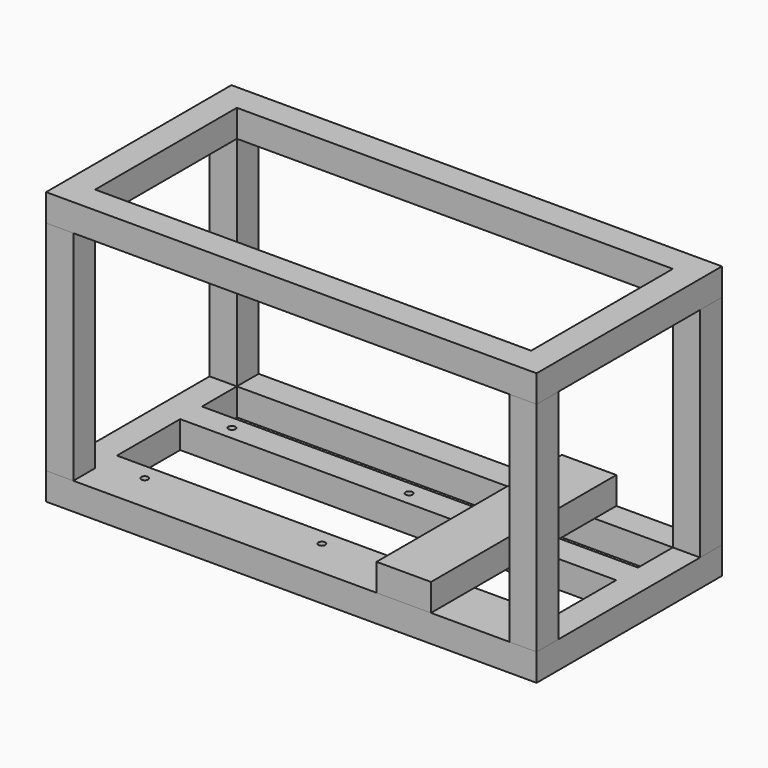
from build123d import *

# Parameters (mm, degrees)
F1_W      = 457.2
F1_H      = 215.9
F1_W_2    = 406.4
F1_H_2    = 73.66
F1_H_3    = 40.64
F2_DEPTH  = 25.4
F3_D      = 6.5278
F4_D      = 6.5278
F5_W      = 50.8
F5_H      = 215.9
F6_DEPTH  = 25.4
F7_W      = 25.4
F7_H      = 25.4
F8_DEPTH  = 203.2
F9_W      = 457.2
F9_H      = 215.9
F9_W_2    = 406.4
F9_H_2    = 165.1
F10_DEPTH = 25.4
F12_D     = 5.1054
F12_DEPTH = 19.685
F12_TIP   = 1.5338169022


with BuildPart() as f2:
    # F1 (on Top) → F2 (new body)
    with BuildSketch(Plane.XY):
        with Locations((228.6, 107.95)):
            Rectangle(F1_W, F1_H)
        with Locations((228.6, 87.63)):
            Rectangle(F1_W_2, F1_H_2, mode=Mode.SUBTRACT)
        with Locations((228.6, 170.18)):
            Rectangle(F1_W_2, F1_H_3, mode=Mode.SUBTRACT)
    extrude(amount=F2_DEPTH)

    # F3 (through all)
    with Locations(Plane(origin=(0, 0, 0), x_dir=(1, 0, 0), z_dir=(0, 0, -1))):
        with Locations((63.5, -35.56), (228.6, -35.56)):
            Hole(F3_D / 2)

    # F4 (through all)
    with Locations(Plane(origin=(0, 0, 0), x_dir=(1, 0, 0), z_dir=(0, 0, -1))):
        with Locations((63.5, -137.16), (228.6, -137.16)):
            Hole(F4_D / 2)

    # F12
    with Locations(Plane(origin=(0, 0, 0), x_dir=(1, 0, 0), z_dir=(0, 0, -1))):
        with Locations((381, -203.2), (76.2, -203.2), (76.2, -12.7), (381, -12.7)):
            Hole(F12_D / 2, depth=F12_DEPTH)
            with Locations((0, 0, -(F12_DEPTH + F12_TIP / 2))):  # 118° drill point
                Cone(0, F12_D / 2, F12_TIP, mode=Mode.SUBTRACT)


with BuildPart() as f6:
    # F5 (on face) → F6 (new body)
    with BuildSketch(Plane.XY.offset(25.4)):
        with Locations((333.375, 107.95)):
            Rectangle(F5_W, F5_H)
    extrude(amount=F6_DEPTH)


with BuildPart() as f8:
    # F7 (on face) → F8 (new body)
    with BuildSketch(Plane.XY.offset(25.4)):
        with Locations((12.7, 203.2)):
            Rectangle(F7_W, F7_H)
    extrude(amount=F8_DEPTH)


with BuildPart() as f8b:
    # F7 (on face) → F8, piece 2 (new body)
    with BuildSketch(Plane.XY.offset(25.4)):
        with Locations((444.5, 203.2)):
            Rectangle(F7_W, F7_H)
    extrude(amount=F8_DEPTH)


with BuildPart() as f8c:
    # F7 (on face) → F8, piece 3 (new body)
    with BuildSketch(Plane.XY.offset(25.4)):
        with Locations((444.5, 12.7)):
            Rectangle(F7_W, F7_H)
    extrude(amount=F8_DEPTH)


with BuildPart() as f8d:
    # F7 (on face) → F8, piece 4 (new body)
    with BuildSketch(Plane.XY.offset(25.4)):
        with Locations((12.7, 12.7)):
            Rectangle(F7_W, F7_H)
    extrude(amount=F8_DEPTH)


with BuildPart() as f10:
    # F9 (on face) → F10 (new body)
    with BuildSketch(Plane.XY.offset(228.6)):
        with Locations((228.6, 107.95)):
            Rectangle(F9_W, F9_H)
        with Locations((228.6, 107.95)):
            Rectangle(F9_W_2, F9_H_2, mode=Mode.SUBTRACT)
    extrude(amount=F10_DEPTH)


solid = Compound([f2.part, f6.part, f8.part, f8b.part, f8c.part, f8d.part, f10.part])
